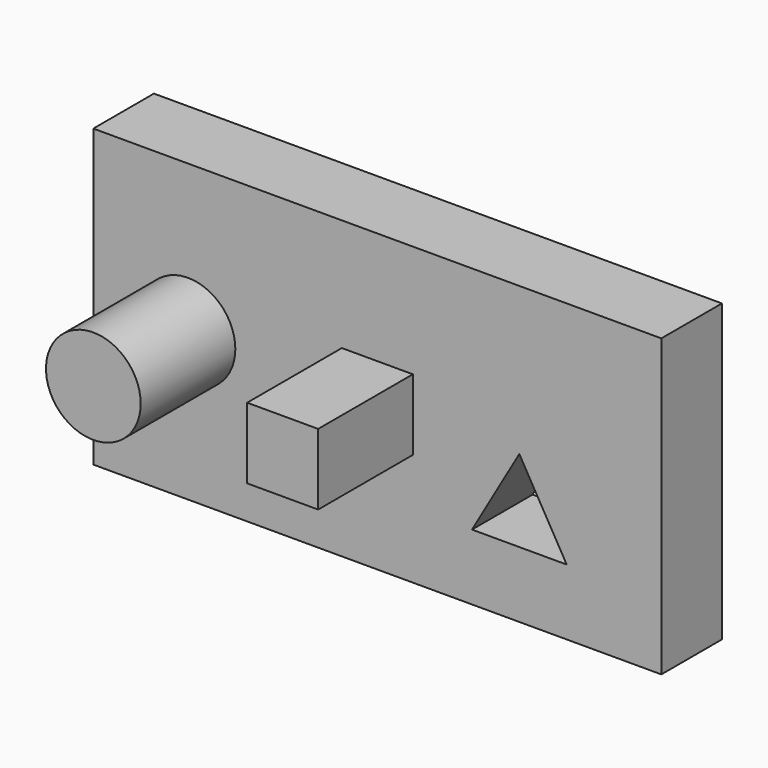
from build123d import *

# Parameters (mm, degrees)
F0_W          = 152.4
F0_H          = 79.375
F0_R          = 12.7
F1_DEPTH      = 20.32
F2_DEPTH      = 31.75
F3_DEPTH      = 20.32
F3_DEPTH_BACK = 31.75


with BuildPart() as f1:
    # F0 (on Front) → F1 (new body)
    with BuildSketch(Plane.XZ):
        Rectangle(F0_W, F0_H)
        Polygon((25.4, -21.9970452561), (38.1, 0), (50.8, -21.9970452561), align=None, mode=Mode.SUBTRACT)
        with Locations((-50.8, 0)):
            Circle(F0_R, mode=Mode.SUBTRACT)
        Polygon((9.525, 0), (9.525, -9.525), (-9.525, -9.525), (-9.525, 0), (-9.525, 9.525), (9.525, 9.525), align=None, mode=Mode.SUBTRACT)
    extrude(amount=-F1_DEPTH)

    # F0 (on Front) → F3 (join, two sides)
    with BuildSketch(Plane.XZ) as f3_sk:
        with Locations((-50.8, 0)):
            Circle(F0_R)
    extrude(amount=-F3_DEPTH)
    extrude(f3_sk.sketch, amount=F3_DEPTH_BACK)


with BuildPart() as f2:
    # F0 (on Front) → F2 (new body)
    with BuildSketch(Plane.XZ):
        Polygon((0, 0), (9.525, 0), (9.525, 9.525), (-9.525, 9.525), (-9.525, 0), align=None)
        Polygon((-9.525, -9.525), (9.525, -9.525), (9.525, 0), (0, 0), (-9.525, 0), align=None)
    extrude(amount=F2_DEPTH)


solid = Compound([f1.part, f2.part])
